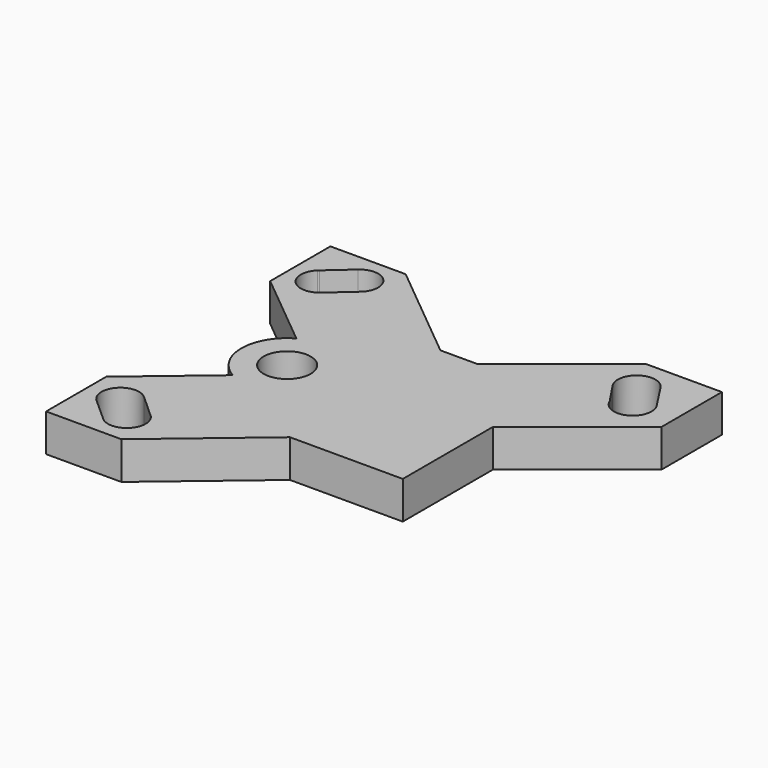
from build123d import *

# Parameters (mm, degrees)
F0_W      = 127
F0_H      = 127
F1_DEPTH  = 25.4
F3_DEPTH  = 25.4
F5_DEPTH  = 25.4
F7_DEPTH  = 25.4
F8_R      = 15.875
F9_DEPTH  = 25.4
F11_DEPTH = 25.4
F13_DEPTH = 25.4
F15_DEPTH = 25.4


with BuildPart() as f1:
    # F0 (on Top) → F1 (new body)
    with BuildSketch(Plane.XY):
        with Locations((-6.4998464659, 17.2889307044)):
            Rectangle(F0_W, F0_H)
    extrude(amount=F1_DEPTH)

    # F2 (on face) → F3 (join)
    with BuildSketch(Plane.XY.offset(25.4)):
        Polygon((-69.9998464659, 80.7889307044), (-19.1998464659, 80.7889307044), (-87.8500497752, 137.2721988958), (-138.6500497752, 137.2721988958), (-138.6500497752, 86.4721988958), (-69.9998464659, 29.9889307044), align=None)
        with BuildLine():
            ThreePointArc((-109.5878779442, 92.8645576236), (-127.335300057, 93.7629034767), (-126.8113794505, 111.5253223468))
            ThreePointArc((-126.8113794505, 111.5253223468), (-126.4226968944, 111.8842534225), (-126.0194023679, 112.2266846875))
            Line((-126.0194023679, 112.2266846875), (-110.7193396489, 125.7761775168))
            ThreePointArc((-110.7193396489, 125.7761775168), (-97.0861443246, 127.8491270452), (-89.5994854861, 116.268493473))
            ThreePointArc((-89.5994854861, 116.268493473), (-90.7041997852, 111.087822714), (-93.8261547008, 106.8084371623))
            Line((-93.8261547008, 106.8084371623), (-109.5878779442, 92.8645576236))
        make_face(mode=Mode.SUBTRACT)
    extrude(amount=-F3_DEPTH)

    # F4 (on face) → F5 (join)
    with BuildSketch(Plane.XY.offset(25.4)):
        Polygon((-19.1998464659, -46.2110692956), (-69.9998464659, -46.2110692956), (-69.9998464659, 4.5889307044), (-137.9625790448, -52.7196810429), (-137.9625790448, -103.5196810429), (-87.1625790448, -103.5196810429), align=None)
        with BuildLine():
            ThreePointArc((-124.8913826642, -77.2612392483), (-125.8684271298, -59.289751867), (-107.8930110557, -58.387869642))
            Line((-107.8930110557, -58.387869642), (-93.478630305, -71.4798248269))
            ThreePointArc((-93.478630305, -71.4798248269), (-92.3018338966, -72.4272635432), (-91.2458718834, -73.5077422033))
            ThreePointArc((-91.2458718834, -73.5077422033), (-88.9421307344, -77.38777287), (-88.1404826535, -81.8284058891))
            ThreePointArc((-88.1404826535, -81.8284058891), (-96.3332021363, -93.7016709135), (-110.3411790849, -90.2561438606))
            Line((-110.3411790849, -90.2561438606), (-124.8913826642, -77.2612392483))
        make_face(mode=Mode.SUBTRACT)
    extrude(amount=-F5_DEPTH)

    # F6 (on face) → F7 (join)
    with BuildSketch(Plane.XY.offset(25.4)):
        with BuildLine():
            Line((-86.9905296106, -9.7382222324), (-69.9998464659, 4.5889307044))
            Line((-69.9998464659, 4.5889307044), (-69.9998464659, 29.9889307044))
            Line((-69.9998464659, 29.9889307044), (-86.9905296106, 43.9683403282))
            ThreePointArc((-86.9905296106, 43.9683403282), (-102.6121797634, 17.1150590479), (-86.9905296106, -9.7382222324))
        make_face()
    extrude(amount=-F7_DEPTH)

    # F8 (on face) → F9 (cut)
    with BuildSketch(Plane.XY.offset(25.4)):
        with Locations((-71.7212476412, 17.1150590479)):
            Circle(F8_R)
    extrude(amount=-F9_DEPTH, mode=Mode.SUBTRACT)

    # F10 (on face) → F11 (join)
    with BuildSketch(Plane.XY.offset(25.4)):
        Polygon((6.2001535341, 80.7889307044), (57.0001535341, 80.7889307044), (57.0001535341, 29.9889307044), (126.4214329, 85.5217675778), (126.4214329, 136.3217675778), (75.6214329, 136.3217675778), align=None)
        with BuildLine():
            ThreePointArc((76.5939625601, 106.3933075608), (80.5762417258, 123.917512433), (98.0957891705, 119.9147932213))
            Line((98.0957891705, 119.9147932213), (109.2649622488, 102.7253014109))
            ThreePointArc((109.2649622488, 102.7253014109), (110.7921511376, 99.4142259228), (111.3155970742, 95.8056900505))
            ThreePointArc((111.3155970742, 95.8056900505), (96.237535273, 83.330321436), (86.8061762759, 100.4776896661))
            ThreePointArc((86.8061762759, 100.4776896661), (81.1206145534, 102.0919953506), (76.7813723772, 106.1047964024))
            ThreePointArc((76.7813723772, 106.1047964024), (76.6866904713, 106.2484173479), (76.5939625601, 106.3933075608))
        make_face(mode=Mode.SUBTRACT)
    extrude(amount=-F11_DEPTH)

    # F12 (on face) → F13 (cut)
    with BuildSketch(Plane.XY.offset(25.4)):
        with BuildLine():
            Line((-19.1998464659, 80.7889307044), (6.2001535341, 80.7889307044))
            Line((6.2001535341, 80.7889307044), (23.852505554, 94.9097477523))
            ThreePointArc((23.852505554, 94.9097477523), (-6.2549458696, 107.6316508681), (-36.3623972932, 94.9097477523))
            Line((-36.3623972932, 94.9097477523), (-19.1998464659, 80.7889307044))
        make_face()
    extrude(amount=-F13_DEPTH, mode=Mode.SUBTRACT)

    # F14 (on face) → F15 (cut)
    with BuildSketch(Plane.XY.offset(25.4)):
        with BuildLine():
            Line((76.7843086706, 106.1004093518), (86.8061762759, 91.133690435))
            ThreePointArc((86.8061762759, 91.133690435), (85.9155970742, 95.8056900505), (86.8061762759, 100.4776896661))
            ThreePointArc((86.8061762759, 100.4776896661), (81.1229163803, 102.0907036074), (76.7843086706, 106.1004093518))
        make_face()
    extrude(amount=-F15_DEPTH, mode=Mode.SUBTRACT)


solid = f1.part
